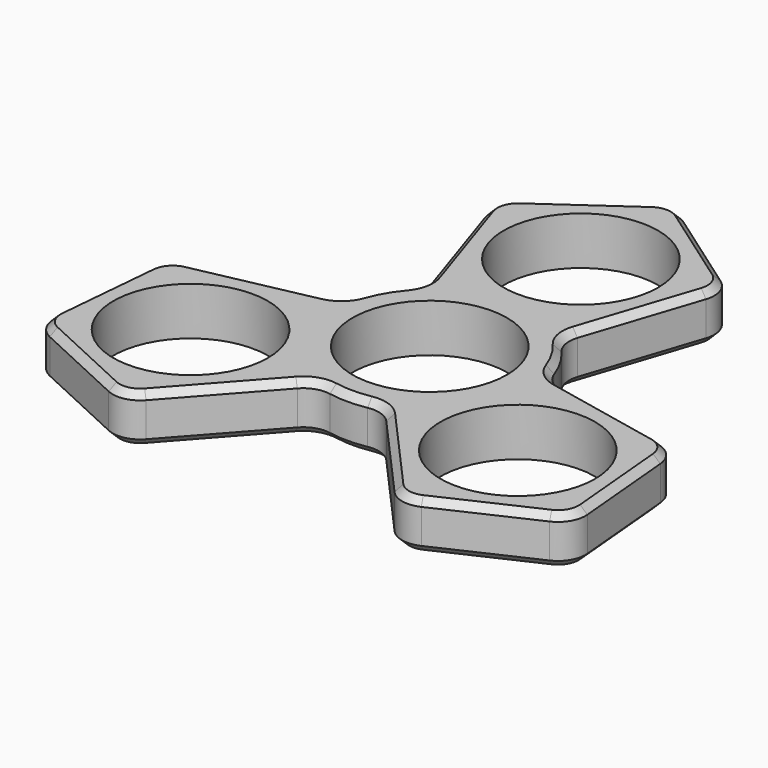
from build123d import *

# Parameters (mm, degrees)
F0_R     = 11.635
F0_R_2   = 11.3175
F1_DEPTH = 7
F2_R     = 4
F3_SIZE  = 1
F4_R     = 11.3175
F4_R_2   = 11.25
F4_R_3   = 11.635
F5_DEPTH = 7


with BuildPart() as f1:
    # F0 (on Top) → F1 (new body)
    with BuildSketch(Plane.XY):
        with BuildLine():
            Line((17.023025, 33.009872), (0, 45))
            Line((0, 45), (-17.023025, 33.009872))
            Line((-17.023025, 33.009872), (-9.861474, 11.302714))
            ThreePointArc((-9.861474, 11.302714), (0, 15), (9.861474, 11.302714))
            Line((9.861474, 11.302714), (17.023025, 33.009872))
        make_face()
        with Locations((0, 27.524821)):
            Circle(F0_R, mode=Mode.SUBTRACT)
        with BuildLine():
            ThreePointArc((9.861474, 11.302714), (0, 15), (-9.861474, 11.302714))
            ThreePointArc((-9.861474, 11.302714), (-12.990381, 7.5), (-14.719174, 2.88893))
            ThreePointArc((-14.719174, 2.88893), (-12.990381, -7.5), (-4.8577, -14.191644))
            ThreePointArc((-4.8577, -14.191644), (0, -15), (4.8577, -14.191644))
            ThreePointArc((4.8577, -14.191644), (12.203801, -8.721654), (15, 0))
            ThreePointArc((15, 0), (14.929628, 1.451273), (14.719174, 2.88893))
            ThreePointArc((14.719174, 2.88893), (12.990381, 7.5), (9.861474, 11.302714))
        make_face()
        Circle(F0_R_2, mode=Mode.SUBTRACT)
        with BuildLine():
            ThreePointArc((-4.8577, -14.191644), (-12.990381, -7.5), (-14.719174, 2.88893))
            Line((-14.719174, 2.88893), (-37.0989, -1.762564))
            Line((-37.0989, -1.762564), (-38.971143, -22.5))
            Line((-38.971143, -22.5), (-20.075875, -31.247308))
            Line((-20.075875, -31.247308), (-4.8577, -14.191644))
        make_face()
        with Locations((-23.837195, -13.762411)):
            Circle(F0_R, mode=Mode.SUBTRACT)
        with BuildLine():
            Line((37.0989, -1.762564), (14.719174, 2.88893))
            ThreePointArc((14.719174, 2.88893), (14.929628, 1.451273), (15, 0))
            ThreePointArc((15, 0), (12.203801, -8.721654), (4.8577, -14.191644))
            Line((4.8577, -14.191644), (20.075875, -31.247308))
            Line((20.075875, -31.247308), (38.971143, -22.5))
            Line((38.971143, -22.5), (37.0989, -1.762564))
        make_face()
        with Locations((23.837195, -13.762411)):
            Circle(F0_R, mode=Mode.SUBTRACT)
    extrude(amount=F1_DEPTH)

    # F2
    f2_edges = [f1.edges().sort_by_distance(p)[0] for p in [
        (-20.075875, -31.247308, 3.5),
        (20.075875, -31.247308, 3.5),
        (38.971143, -22.5, 3.5),
        (37.0989, -1.762564, 3.5),
        (14.719174, 2.88893, 3.5),
        (9.861474, 11.302714, 3.5),
        (17.023025, 33.009872, 3.5),
        (0, 45, 3.5),
        (-17.023025, 33.009872, 3.5),
        (-9.861474, 11.302714, 3.5),
        (-14.719174, 2.88893, 3.5),
        (-37.0989, -1.762564, 3.5),
        (-38.971143, -22.5, 3.5),
        (-4.8577, -14.191644, 3.5),
        (4.8577, -14.191644, 3.5),
    ]]
    fillet(f2_edges, radius=F2_R)

    # F3
    f3_edges = [f1.edges().sort_by_distance(p)[0] for p in [
        (-13.359963, 21.906877, 7),
        (-13.359963, 21.906877, 0),
    ]]
    chamfer(f3_edges, length=F3_SIZE)

    # F4 (on face) → F5 (join)
    with BuildSketch(Plane.XY.offset(7)):
        Circle(F4_R)
        Circle(F4_R_2, mode=Mode.SUBTRACT)
        with Locations((0, 27.524821)):
            Circle(F4_R_3)
        with Locations((0, 27.524821)):
            Circle(F4_R_2, mode=Mode.SUBTRACT)
        with Locations((-23.837195, -13.762411)):
            Circle(F4_R_3)
        with Locations((-23.837195, -13.762411)):
            Circle(F4_R_2, mode=Mode.SUBTRACT)
        with Locations((23.837195, -13.762411)):
            Circle(F4_R_3)
        with Locations((23.837195, -13.762411)):
            Circle(F4_R_2, mode=Mode.SUBTRACT)
    extrude(amount=-F5_DEPTH)


solid = f1.part
